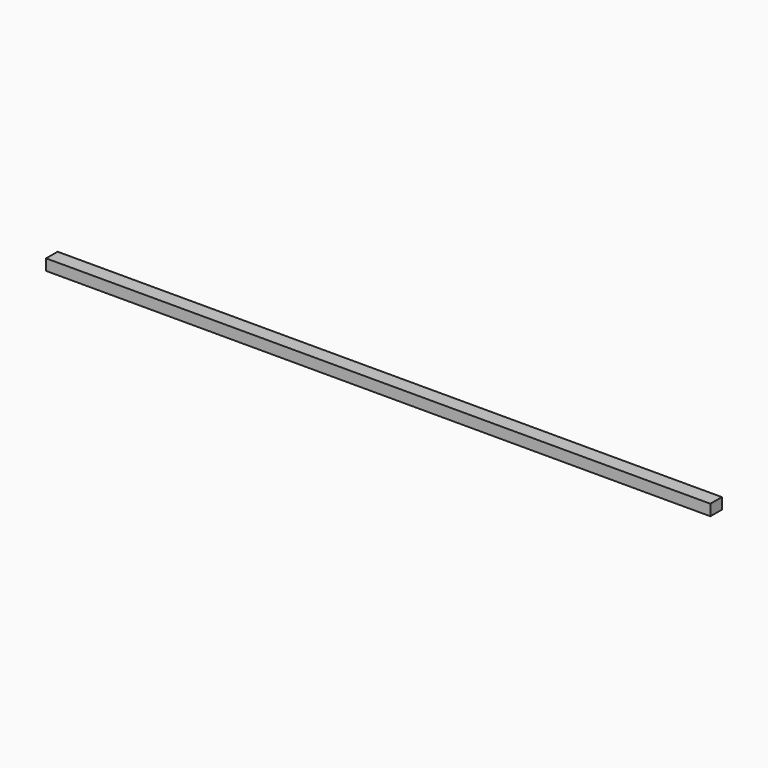
from build123d import *

# Parameters (mm, degrees)
F0_W     = 914.4
F0_H     = 15.24
F1_DEPTH = 19.84375
F2_R     = 3.175
F2_R_2   = 3.2131
F3_DEPTH = 8.125707


with BuildPart() as f1:
    # F0 (on Front) → F1 (new body)
    with BuildSketch(Plane.XZ):
        with Locations((332.103157, -0.504707)):
            Rectangle(F0_W, F0_H)
    extrude(amount=F1_DEPTH)

    # F2 (on Top) → F3 (cut, through all)
    with BuildSketch(Plane.XY):
        with Locations((756.703595, -9.135589)):
            Circle(F2_R)
        with Locations((699.553595, -9.135589)):
            Circle(F2_R)
        with Locations((642.403595, -9.135589)):
            Circle(F2_R)
        with Locations((585.253595, -9.135589)):
            Circle(F2_R_2)
        with Locations((528.103595, -9.135589)):
            Circle(F2_R)
        with Locations((470.953595, -9.135589)):
            Circle(F2_R)
        with Locations((413.803595, -9.135589)):
            Circle(F2_R)
        with Locations((356.653595, -9.135589)):
            Circle(F2_R)
        with Locations((299.503595, -9.135589)):
            Circle(F2_R)
        with Locations((242.353595, -9.135589)):
            Circle(F2_R)
        with Locations((185.203595, -9.135589)):
            Circle(F2_R)
        with Locations((128.053595, -9.135589)):
            Circle(F2_R)
        with Locations((70.903595, -9.135589)):
            Circle(F2_R)
        with Locations((13.753595, -9.135589)):
            Circle(F2_R)
        with Locations((-43.396405, -9.135589)):
            Circle(F2_R)
        with Locations((-100.546405, -9.135589)):
            Circle(F2_R)
    extrude(amount=-F3_DEPTH, mode=Mode.SUBTRACT)


solid = f1.part
